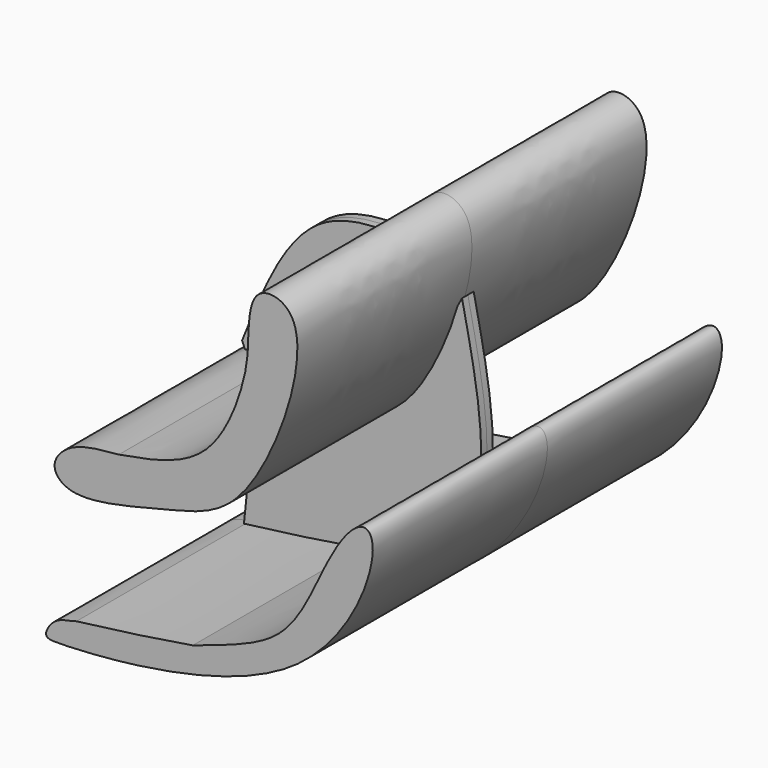
from build123d import *

# Parameters (mm, degrees)
F1_DEPTH      = 76.2
F1_DEPTH_BACK = 76.2
F3_DEPTH      = 2.54
F3_DEPTH_BACK = 2.54
F5_DEPTH      = 2.54
F5_DEPTH_BACK = 2.54
F7_DEPTH      = 76.2
F7_DEPTH_BACK = 76.2


with BuildPart() as f1:
    # F0 (on Front) → F1 (new body, two sides)
    with BuildSketch(Plane.XZ) as f1_sk:
        with BuildLine():
            add(Edge.make_bspline(
                [(-60.8884431422, 0), (-67.2125816648, -0.5372473231), (-78.0782416789, -1.4603053388), (-85.5638907181, -10.9571789458), (-76.6187875241, -20.2959961138), (-44.0635356099, -10.9868359291), (-27.1945826387, -7.6314469978), (-19.7655607184, 0)],
                knots=[0, 0, 0, 0, 0.1139495779, 0.1957796098, 0.2746629262, 0.4308585523, 0.5665520179, 0.5665520179, 0.5665520179, 0.5665520179], degree=3))
            Line((-19.7655607184, 0), (-60.8884431422, 0))
        make_face()
        with BuildLine():
            Line((-60.8884431422, 0), (-19.7655607184, 0))
            add(Edge.make_bspline(
                [(-19.7655607184, 0), (-18.8049229675, 0.9868130904), (-6.3662461894, 15.1809975128), (10.4016940454, 63.4775207271), (-14.9451207877, 68.9733964599), (-15.4748890003, 56.7313907214), (-15.7557949424, 50.2401515841)],
                knots=[0.5665520179, 0.5665520179, 0.5665520179, 0.5665520179, 0.5840983742, 0.7953935753, 0.891508854, 1, 1, 1, 1], degree=3))
            add(Edge.make_bspline(
                [(-60.8884431422, 0), (-49.6710888001, 1.9331342353), (-27.4483637946, 5.7628706596), (-15.9852533887, 38.7025976802), (-15.8183029174, 47.0971462063), (-15.7557949424, 50.2401515841)],
                knots=[0, 0, 0, 0, 0.3893650777, 0.7713719995, 1, 1, 1, 1], degree=3))
        make_face()
    extrude(amount=F1_DEPTH)
    extrude(f1_sk.sketch, amount=-F1_DEPTH_BACK)

    # F2 (on Front) → F3 (join, two sides)
    with BuildSketch(Plane.XZ) as f3_sk:
        with BuildLine():
            add(Edge.make_bspline(
                [(-35.478297621, 0), (-23.652198414, 15.7245087127), (-11.826099207, 31.4490174254), (0, 47.1735261381)],
                knots=[0, 0, 0, 0, 59.0258517125, 59.0258517125, 59.0258517125, 59.0258517125], degree=3))
            add(Edge.make_bspline(
                [(0, 47.1735261381), (-17.8839705322, 49.9140179226), (-54.5526935856, 55.533034913), (-69.2595847249, 18.8117030859), (-76.7936706543, 0)],
                knots=[0, 0, 0, 0, 0.4877172981, 1, 1, 1, 1], degree=3))
            add(Edge.make_bspline(
                [(-76.7936706543, 0), (-75.1248268753, -4.402372355), (-70.6562599299, -16.1903514543), (-49.0287413304, -6.2364739632), (-35.478297621, 0)],
                knots=[0, 0, 0, 0, 0.3734628572, 1, 1, 1, 1], degree=3))
        make_face()
    extrude(amount=F3_DEPTH)
    extrude(f3_sk.sketch, amount=-F3_DEPTH_BACK)

    # F4 (on Front) → F5 (join, two sides)
    with BuildSketch(Plane.XZ) as f5_sk:
        with BuildLine():
            add(Edge.make_bspline(
                [(0, 37.9238165915), (5.7890463537, 10.4886099877), (17.7321597135, -46.1116938449), (-44.2425786817, -52.9167294973), (-76.1770233512, -56.4232394099)],
                knots=[0, 0, 0, 0, 0.4847183627, 1, 1, 1, 1], degree=3))
            add(Edge.make_bspline(
                [(-53.9777204394, 0), (-41.9640330352, 1.6606873869), (-17.7736675228, 5.0045928457), (-5.9511086599, 26.901562616), (0, 37.9238165915)],
                knots=[0, 0, 0, 0, 0.4966310822, 1, 1, 1, 1], degree=3))
            add(Edge.make_bspline(
                [(-76.1770233512, -56.4232394099), (-74.8469519496, -41.9800963059), (-72.5030808394, -16.5281801008), (-59.5711826899, -4.990442802), (-53.9777204394, 0)],
                knots=[0, 0, 0, 0, 0.5674678082, 1, 1, 1, 1], degree=3))
        make_face()
    extrude(amount=F5_DEPTH)
    extrude(f5_sk.sketch, amount=-F5_DEPTH_BACK)

    # F6 (on Front) → F7 (join, two sides)
    with BuildSketch(Plane.XZ) as f7_sk:
        with BuildLine():
            add(Edge.make_bspline(
                [(-35.0914075971, -50.2678975463), (-40.983202449, -51.2271825044), (-53.4142538596, -53.2511702588), (-68.0239861861, -55.0988522967), (-75.7093206587, -56.0708108612)],
                knots=[0, 0, 0, 0, 0.4739578864, 1, 1, 1, 1], degree=3))
            add(Edge.make_bspline(
                [(-75.7093206587, -56.0708108612), (-78.1605872622, -56.9037741106), (-83.2370018753, -56.9176427256), (-88.0763815366, -64.8878316153), (-76.8030908678, -65.0279093349), (8.7475793702, -59.5730471317), (30.8426534838, -2.1447494596), (25.5677568735, 6.7938595446), (18.4956777518, 2.6168687292), (9.2441524379, -13.5496017626), (-1.8945962714, -40.3816252689), (-23.0667572699, -46.1408707209), (-35.0914075971, -50.2678975463)],
                knots=[0, 0, 0, 0, 0.0624644697, 0.1182721327, 0.1755723634, 0.3802045871, 0.544331831, 0.5993589322, 0.6537131948, 0.7511114006, 0.8691713823, 1, 1, 1, 1], degree=3))
        make_face()
    extrude(amount=F7_DEPTH)
    extrude(f7_sk.sketch, amount=-F7_DEPTH_BACK)


solid = f1.part
